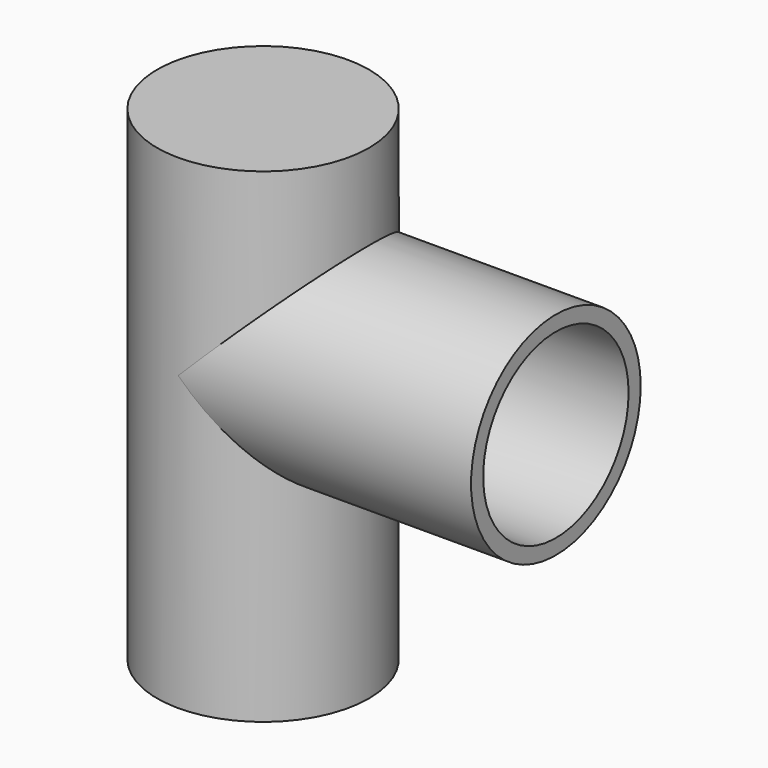
from build123d import *

# Parameters (mm, degrees)
F0_R     = 22.225
F0_R_2   = 19.05
F1_DEPTH = 76.2
F2_START = 73.025
F2_DEPTH = 3.175
F3_R     = 22.225
F3_R_2   = 19.05
F4_DEPTH = 35.9833333333
F5_DEPTH = 63.5
F6_DEPTH = 25.4
F7_DEPTH = 25.4
F8_DEPTH = 25.4


with BuildPart() as f1:
    # F0 (on Top) → F1 (new body)
    with BuildSketch(Plane.XY):
        Circle(F0_R)
        Circle(F0_R_2, mode=Mode.SUBTRACT)
    extrude(amount=F1_DEPTH)

    # F0 (on Top) → F2 (join)
    with BuildSketch(Plane.XY.offset(F2_START)):
        Circle(F0_R)
        Circle(F0_R_2, mode=Mode.SUBTRACT)
        Circle(F0_R_2)
    extrude(amount=F2_DEPTH)

    # F3 (on Right) → F4 (join)
    with BuildSketch(Plane.YZ):
        with Locations((0, 35.9833333333)):
            Circle(F3_R)
        with Locations((0, 35.9833333333)):
            Circle(F3_R_2, mode=Mode.SUBTRACT)
    extrude(amount=F4_DEPTH)

    # F0 (on Top) → F5 (cut)
    with BuildSketch(Plane.XY):
        Circle(F0_R_2)
    extrude(amount=F5_DEPTH, mode=Mode.SUBTRACT)

    # F3 (on Right) → F6 (cut)
    with BuildSketch(Plane.YZ):
        with Locations((0, 35.9833333333)):
            Circle(F3_R_2)
    extrude(amount=F6_DEPTH, mode=Mode.SUBTRACT)

    # F7 (add): a face of the model
    f7_faces = [f1.faces().sort_by_distance(p)[0] for p in [
        (35.9833333333, -21.5963820715, 35.9833333333),
    ]]
    extrude(f7_faces, amount=F7_DEPTH)

    # F8 (add): a face of the model
    f8_faces = [f1.faces().sort_by_distance(p)[0] for p in [
        (-21.5963820715, 0, 0),
    ]]
    extrude(f8_faces, amount=F8_DEPTH)


solid = f1.part
